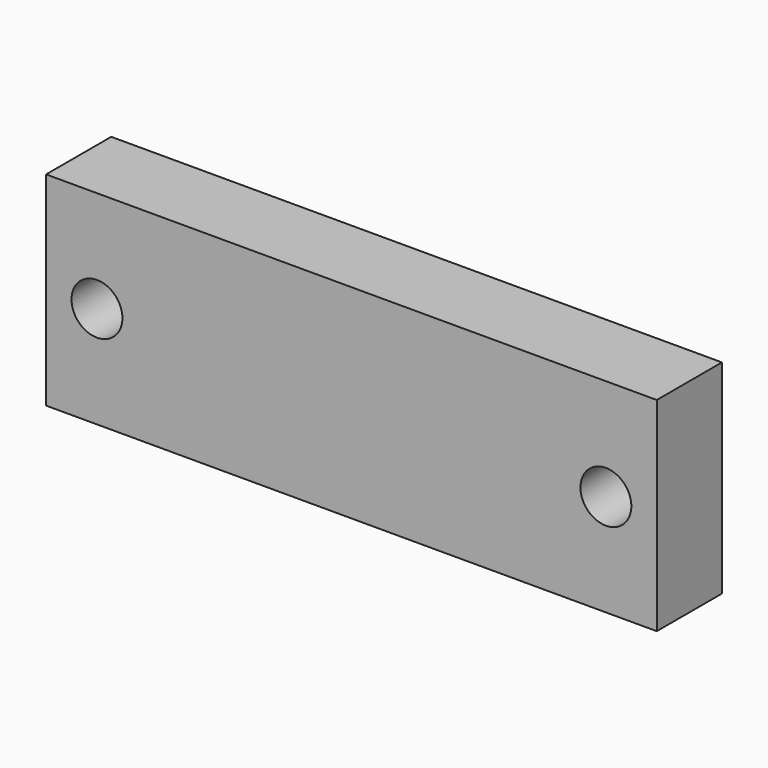
from build123d import *

# Parameters (mm, degrees)
F0_W     = 300
F0_H     = 200
F0_R     = 25
F1_DEPTH = 40


with BuildPart() as f1:
    # F0 (on Front) → F1 (new body, symmetric)
    with BuildSketch(Plane.XZ):
        with Locations((-150, 0)):
            Rectangle(F0_W, F0_H)
        with Locations((-250, 0)):
            Circle(F0_R, mode=Mode.SUBTRACT)
    extrude(amount=F1_DEPTH, both=True)

    # F4: F1 across face


with BuildPart() as f2_1:
    # F2: instance of F1
    add(f1.part.mirror(Plane.YZ))


with BuildPart() as f1_1:
    add(f1.part)
    add(f1.part.mirror(Plane.YZ))


solid = f1_1.part
